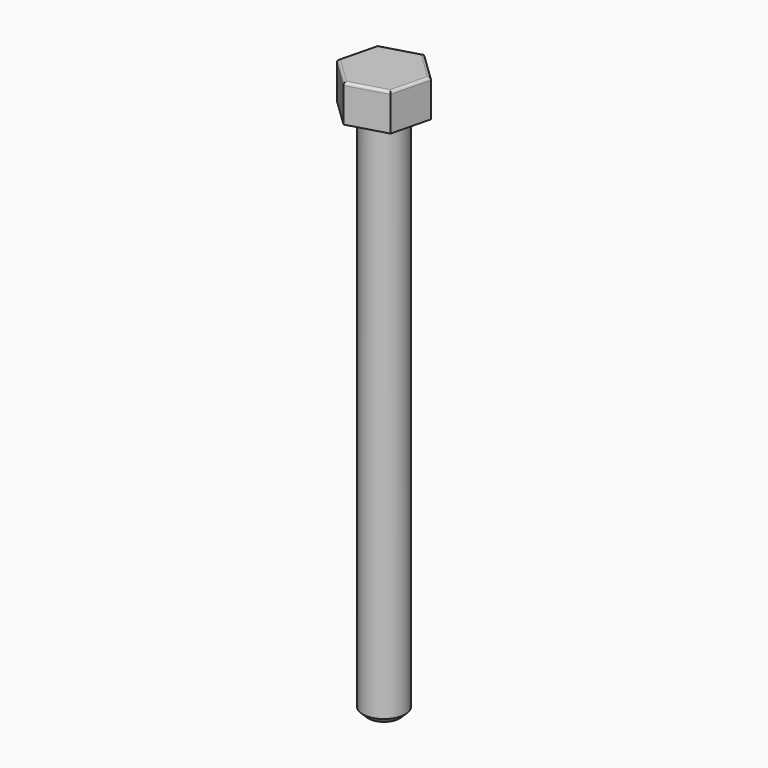
from build123d import *

# Parameters (mm, degrees)
F1_DEPTH = 7
F2_R     = 0.5
F3_R     = 4
F4_DEPTH = 100
F5_SIZE  = 1


with BuildPart() as f1:
    # F0 (on Top) → F1 (new body)
    with BuildSketch(Plane.XY):
        Polygon((1.807803, 7.284585), (-5.404734, 5.207896), (-7.212537, -2.076689), (-1.807803, -7.284585), (5.404734, -5.207896), (7.212537, 2.076689), align=None)
    extrude(amount=F1_DEPTH)

    # F2
    f2_edges = [f1.edges().sort_by_distance(p)[0] for p in [
        (-4.51017, -4.680637, 7),
        (1.798465, -6.246241, 7),
        (4.51017, 4.680637, 7),
        (-1.798465, 6.246241, 7),
        (-6.308636, 1.565604, 7),
        (6.308636, -1.565604, 7),
    ]]
    fillet(f2_edges, radius=F2_R)

    # F3 (on face) → F4 (join)
    with BuildSketch(Plane(origin=(0, 0, 0), x_dir=(1, 0, 0), z_dir=(0, 0, -1))):
        Circle(F3_R)
    extrude(amount=F4_DEPTH)

    # F5
    f5_edges = [f1.edges().sort_by_distance(p)[0] for p in [
        (-4, 0, -100),
    ]]
    chamfer(f5_edges, length=F5_SIZE)


solid = f1.part
